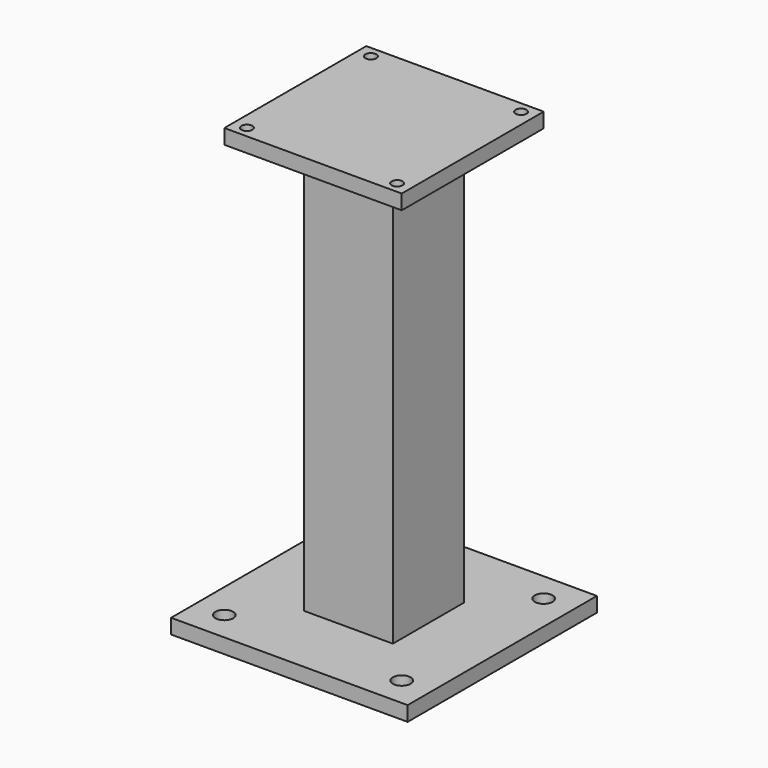
from build123d import *

# Parameters (mm, degrees)
F0_W     = 400
F0_H     = 400
F0_R     = 15
F1_DEPTH = 25
F2_W     = 150
F2_H     = 150
F3_DEPTH = 700
F4_W     = 300
F4_H     = 300
F4_R     = 9.25
F5_DEPTH = 25


with BuildPart() as f1:
    # F0 (on Top) → F1 (new body)
    with BuildSketch(Plane.XY):
        Rectangle(F0_W, F0_H)
        with Locations((-150, -150)):
            Circle(F0_R, mode=Mode.SUBTRACT)
        with Locations((150, -150)):
            Circle(F0_R, mode=Mode.SUBTRACT)
        with Locations((-150, 150)):
            Circle(F0_R, mode=Mode.SUBTRACT)
        with Locations((150, 150)):
            Circle(F0_R, mode=Mode.SUBTRACT)
    extrude(amount=F1_DEPTH)

    # F2 (on face) → F3 (join)
    with BuildSketch(Plane.XY.offset(25)):
        Rectangle(F2_W, F2_H)
    extrude(amount=F3_DEPTH)

    # F4 (on face) → F5 (join)
    with BuildSketch(Plane.XY.offset(725)):
        Rectangle(F4_W, F4_H)
        with Locations((-127, -131)):
            Circle(F4_R, mode=Mode.SUBTRACT)
        with Locations((127, -131)):
            Circle(F4_R, mode=Mode.SUBTRACT)
        with Locations((-127, 131)):
            Circle(F4_R, mode=Mode.SUBTRACT)
        with Locations((127, 131)):
            Circle(F4_R, mode=Mode.SUBTRACT)
    extrude(amount=F5_DEPTH)


solid = f1.part
